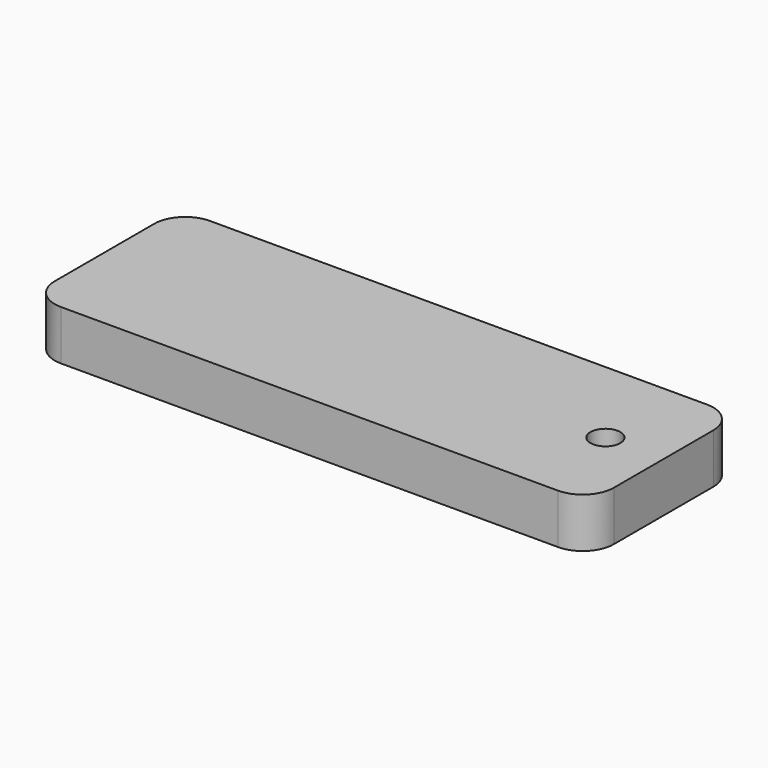
from build123d import *

# Parameters (mm, degrees)
F1_DEPTH = 4
F2_R     = 2.405498
F3_DEPTH = 11


with BuildPart() as f1:
    # F0 (on Top) → F1 (new body, symmetric)
    with BuildSketch(Plane.XY):
        with BuildLine():
            ThreePointArc((45, 10), (43.535534, 13.535534), (40, 15))
            Line((40, 15), (-40, 15))
            ThreePointArc((-40, 15), (-43.535534, 13.535534), (-45, 10))
            Line((-45, 10), (-45, -10))
            ThreePointArc((-45, -10), (-43.535534, -13.535534), (-40, -15))
            Line((-40, -15), (40, -15))
            ThreePointArc((40, -15), (43.535534, -13.535534), (45, -10))
            Line((45, -10), (45, 10))
        make_face()
    extrude(amount=F1_DEPTH, both=True)

    # F2 (on face) → F3 (cut)
    with BuildSketch(Plane.XY.offset(4)):
        with Locations((35.641253, 0)):
            Circle(F2_R)
    extrude(amount=-F3_DEPTH, mode=Mode.SUBTRACT)


solid = f1.part
